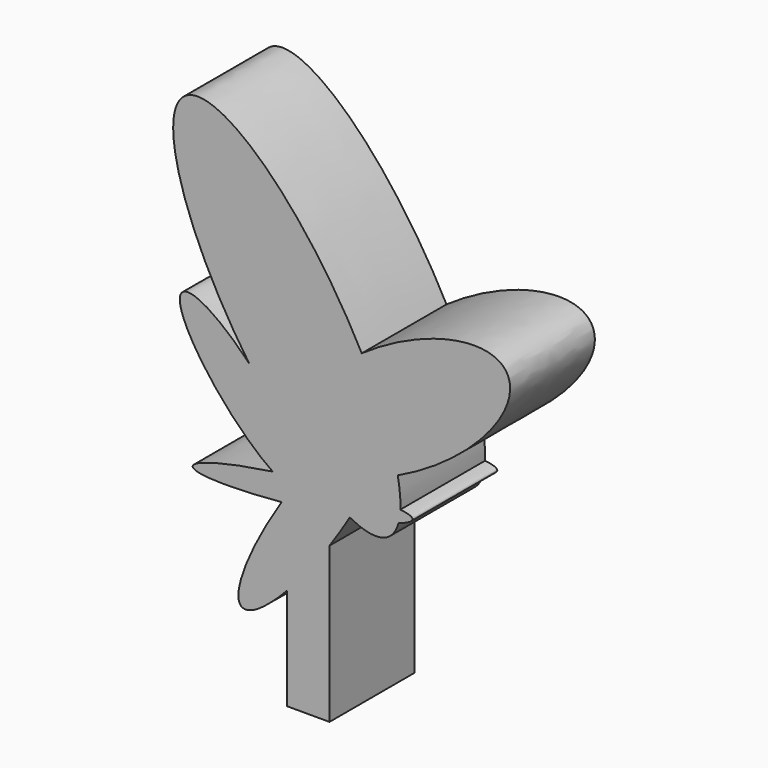
from build123d import *

# Parameters (mm, degrees)
F1_DEPTH = 25.4


with BuildPart() as f1:
    # F0 (on Front) → F1 (new body)
    with BuildSketch(Plane.XZ):
        with BuildLine():
            add(Edge.make_bspline(
                [(-22.6692881024, 20.8587798842), (-63.0904042456, -41.6430551917), (-21.4244797826, 2.5522554152)],
                knots=[1.6769998929, 1.6769998929, 1.6769998929, 4.0712272846, 4.0712272846, 4.0712272846], degree=2, weights=[1, 0.3650463897, 1]))
            Line((-21.4244797826, 2.5522554152), (-21.4244797826, -21.8036733568))
            Line((-21.4244797826, -21.8036733568), (-11.186231859, -21.8036733568))
            Line((-11.186231859, -21.8036733568), (-11.186231859, 15.3972695649))
            add(Edge.make_bspline(
                [(-11.186231859, 15.3972695649), (-8.584356274, 19.1554651313), (-6.3218693372, 22.9493560448)],
                knots=[4.672422493, 4.672422493, 4.672422493, 4.9817197427, 4.9817197427, 4.9817197427], degree=2, weights=[1, 0.9880657151, 1]))
            add(Edge.make_bspline(
                [(-6.3218693372, 22.9493560448), (3.2244312388, 17.833328224), (5.3494367588, 25.5578112842)],
                knots=[5.7717782767, 5.7717782767, 5.7717782767, 6.5686883432, 6.5686883432, 6.5686883432], degree=2, weights=[1, 0.9216615329, 1]))
            add(Edge.make_bspline(
                [(5.3494367588, 25.5578112842), (12.293455549, 27.7936301893), (5.7956349026, 28.531200558)],
                knots=[5.7583089611, 5.7583089611, 5.7583089611, 6.7457461696, 6.7457461696, 6.7457461696], degree=2, weights=[1, 0.8805766908, 1]))
            add(Edge.make_bspline(
                [(5.7956349026, 28.531200558), (5.950078216, 31.5641545612), (5.1799792198, 35.5737563824)],
                knots=[0.4285865127, 0.4285865127, 0.4285865127, 0.6892227449, 0.6892227449, 0.6892227449], degree=2, weights=[1, 0.9915206048, 1]))
            add(Edge.make_bspline(
                [(5.1799792198, 35.5737563824), (37.1578496575, 50.4776028106), (31.7367224697, 64.8714755079), (26.3155952819, 79.2653482052), (-3.4624003642, 58.5205176785)],
                knots=[1.2836381106, 1.2836381106, 1.2836381106, 3.0587513033, 3.0587513033, 4.833864496, 4.833864496, 4.833864496], degree=2, weights=[1, 0.6313088458, 1, 0.6313088458, 1]))
            add(Edge.make_bspline(
                [(-3.4624003642, 58.5205176785), (-28.2837362515, 106.2601738423), (-44.9451234924, 99.5403282923), (-61.6065107332, 92.8204827424), (-30.4663161918, 47.6293391121)],
                knots=[1.3228067359, 1.3228067359, 1.3228067359, 3.0843841075, 3.0843841075, 4.8459614791, 4.8459614791, 4.8459614791], degree=2, weights=[1, 0.6365430753, 1, 0.6365430753, 1]))
            add(Edge.make_bspline(
                [(-30.4663161918, 47.6293391121), (-50.8055186965, 68.7736379375), (-46.7771118192, 53.788259389), (-42.7487049418, 38.8028808405), (-24.8157814918, 26.6097638661)],
                knots=[1.7540597455, 1.7540597455, 1.7540597455, 3.6281483736, 3.6281483736, 5.5022370018, 5.5022370018, 5.5022370018], degree=2, weights=[1, 0.5921723335, 1, 0.5921723335, 1]))
            add(Edge.make_bspline(
                [(-24.8157814918, 26.6097638661), (-44.8368906059, 23.6726812775), (-43.9657673002, 21.3387275827), (-43.0946439946, 19.0047738879), (-22.6692881024, 20.8587798842)],
                knots=[1.8335367287, 1.8335367287, 1.8335367287, 3.1701728898, 3.1701728898, 4.5068090509, 4.5068090509, 4.5068090509], degree=2, weights=[1, 0.7848650051, 1, 0.7848650051, 1]))
        make_face()
    extrude(amount=F1_DEPTH)


solid = f1.part
